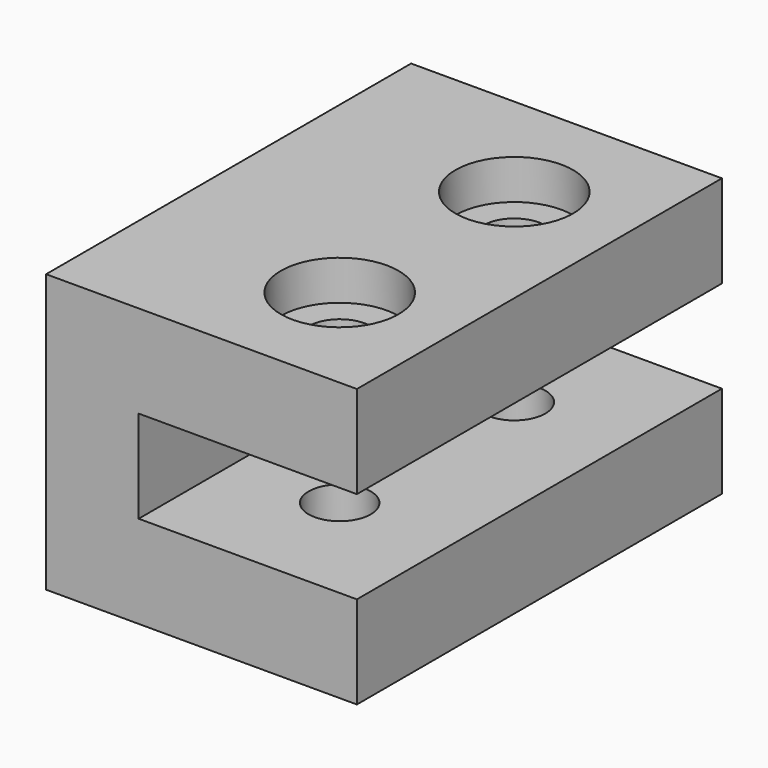
from build123d import *

# Parameters (mm, degrees)
PAD_DEPTH       = 17.25
SKETCH001_R     = 2.35
POCKET_DEPTH    = 21.001
POCKET001_DEPTH = 3.9
SKETCH003_R     = 4.45
POCKET002_DEPTH = 3
SKETCH004_R     = 1.925
POCKET003_DEPTH = 23.501
POCKET004_DEPTH = 3
SKETCH006_R     = 1.925
POCKET005_DEPTH = 2


with BuildPart() as part:
    # Sketch → Pad (new body, symmetric)
    with BuildSketch(Plane.XZ):
        Polygon((0, 0), (23.5, 0), (23.5, 7), (7, 7), (7, 14), (23.5, 14), (23.5, 21), (0, 21), align=None)
    extrude(amount=PAD_DEPTH, both=True)

    # Sketch001 → Pocket (cut, through all)
    with BuildSketch(Plane(origin=(0, 0, 21), x_dir=(-1, 0, 0), z_dir=(0, 0, 1))):
        with Locations((-15, 8.25)):
            Circle(SKETCH001_R)
        with Locations((-15, -8.25)):
            Circle(SKETCH001_R)
    extrude(amount=-POCKET_DEPTH, mode=Mode.SUBTRACT)

    # Sketch002 → Pocket001 (cut)
    with BuildSketch(Plane(origin=(0, 0, 0), x_dir=(1, 0, 0), z_dir=(0, 0, -1))):
        Polygon((15, 12.75), (11.102886, 10.5), (11.102886, 6), (15, 3.75), (18.897114, 6), (18.897114, 10.5), align=None)
        Polygon((15, -3.75), (11.102886, -6), (11.102886, -10.5), (15, -12.75), (18.897114, -10.5), (18.897114, -6), align=None)
    extrude(amount=-POCKET001_DEPTH, mode=Mode.SUBTRACT)

    # Sketch003 → Pocket002 (cut)
    with BuildSketch(Plane(origin=(0, 0, 21), x_dir=(-1, 0, 0), z_dir=(0, 0, 1))):
        with Locations((-15, 8.25)):
            Circle(SKETCH003_R)
        with Locations((-15, -8.25)):
            Circle(SKETCH003_R)
    extrude(amount=-POCKET002_DEPTH, mode=Mode.SUBTRACT)

    # Sketch004 → Pocket003 (cut, through all)
    with BuildSketch(Plane(origin=(0, 0, 0), x_dir=(0, 0, -1), z_dir=(-1, 0, 0))):
        with Locations((-10.5, 0)):
            Circle(SKETCH004_R)
    extrude(amount=-POCKET003_DEPTH, mode=Mode.SUBTRACT)

    # Sketch005 → Pocket004 (cut)
    with BuildSketch(Plane(origin=(7, 0, 0), x_dir=(0, 0, 1), z_dir=(1, 0, 0))):
        Polygon((7, 2.020726), (7, -2.020726), (10.5, -4.041452), (14, -2.020726), (14, 2.020726), (10.5, 4.041452), align=None)
    extrude(amount=-POCKET004_DEPTH, mode=Mode.SUBTRACT)

    # Sketch006 → Pocket005 (cut)
    with BuildSketch(Plane(origin=(0, 0, 0), x_dir=(0, 0, -1), z_dir=(-1, 0, 0))):
        with Locations((-10.5, -8.5)):
            Circle(SKETCH006_R)
        with Locations((-10.5, 8.5)):
            Circle(SKETCH006_R)
    extrude(amount=-POCKET005_DEPTH, mode=Mode.SUBTRACT)


solid = part.part
